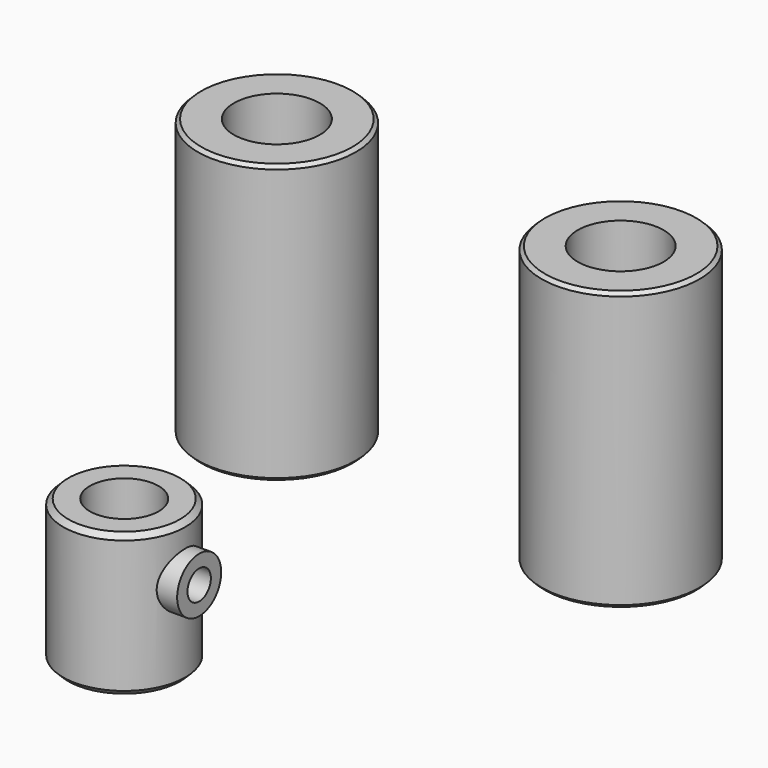
from build123d import *

# Parameters (mm, degrees)
F0_R           = 17.75
F1_DEPTH       = 41.5
F2_R           = 10
F3_DEPTH       = 42
F4_SIZE        = 1.5
F9_R           = 8
F10_DEPTH      = 7.2
F12_D          = 8.5
F12_DEPTH      = 16.5
F12_TIP        = 2.5536576309
F13_R          = 23
F14_DEPTH      = 74.5
F14_DEPTH_BACK = 6.5
F15_SIZE       = 1
F15_2_SIZE     = 1
F16_R          = 12.5
F17_R          = 12.5
F18_DEPTH      = 81
F19_DEPTH      = 81


with BuildPart() as f1:
    # F0 (on Top) → F1 (new body)
    with BuildSketch(Plane.XY):
        Circle(F0_R)
    extrude(amount=F1_DEPTH)

    # F2 (on face) → F3 (cut)
    with BuildSketch(Plane.XY.offset(41.5)):
        Circle(F2_R)
    extrude(amount=-F3_DEPTH, mode=Mode.SUBTRACT)

    # F4
    f4_edges = [f1.edges().sort_by_distance(p)[0] for p in [
        (-17.75, 0, 41.5),
        (-17.75, 0, 0),
    ]]
    chamfer(f4_edges, length=F4_SIZE)

    # F9 (on offset) → F10 (join)
    with BuildSketch(Plane.YZ.offset(21.8)):
        with Locations((0, 26.5000239015)):
            Circle(F9_R)
    extrude(amount=-F10_DEPTH)

    # F12
    with Locations(Plane.YZ.offset(21.8)):
        with Locations((0, 26.5000239015)):
            Hole(F12_D / 2, depth=F12_DEPTH)
            with Locations((0, 0, -(F12_DEPTH + F12_TIP / 2))):  # 118° drill point
                Cone(0, F12_D / 2, F12_TIP, mode=Mode.SUBTRACT)

    # F17 (on face) → F19 (cut)
    with BuildSketch(Plane.XY.offset(74.5)):
        with Locations((50, 118)):
            Circle(F17_R)
    extrude(amount=-F19_DEPTH, mode=Mode.SUBTRACT)


with BuildPart() as f14:
    # F13 (on Top) → F14 (new body, two sides)
    with BuildSketch(Plane.XY) as f14_sk:
        with Locations((-50, 118)):
            Circle(F13_R)
    extrude(amount=F14_DEPTH)
    extrude(f14_sk.sketch, amount=-F14_DEPTH_BACK)

    # F15
    f15_edges = [f14.edges().sort_by_distance(p)[0] for p in [
        (-73, 118, 74.5),
        (-73, 118, -6.5),
    ]]
    chamfer(f15_edges, length=F15_SIZE)


with BuildPart() as f14b:
    # F13 (on Top) → F14, piece 2 (new body, two sides)
    with BuildSketch(Plane.XY) as f14_2_sk:
        with BuildLine():
            ThreePointArc((73, 118), (50, 141), (27, 118))
            ThreePointArc((27, 118), (50, 95), (73, 118))
        make_face()
    extrude(amount=F14_DEPTH)
    extrude(f14_2_sk.sketch, amount=-F14_DEPTH_BACK)

    # F15#2
    f15_2_edges = [f14b.edges().sort_by_distance(p)[0] for p in [
        (73, 118, 74.5),
        (73, 118, -6.5),
    ]]
    chamfer(f15_2_edges, length=F15_2_SIZE)


with BuildPart() as f18_tool:
    # F16 (on face) + F17 (on face) → F18 (new body)
    with BuildSketch(Plane.XY.offset(74.5)):
        with Locations((-50, 118)):
            Circle(F16_R)
    with BuildSketch(Plane.XY.offset(74.5)):
        with Locations((50, 118)):
            Circle(F17_R)
    extrude(amount=-F18_DEPTH)


with BuildPart() as f14_1:
    add(f14.part)

    # F18: cut by f18_tool
    add(f18_tool.part, mode=Mode.SUBTRACT)


with BuildPart() as f14b_1:
    add(f14b.part)

    # F18: cut by f18_tool
    add(f18_tool.part, mode=Mode.SUBTRACT)


solid = Compound([f1.part, f14_1.part, f14b_1.part])
